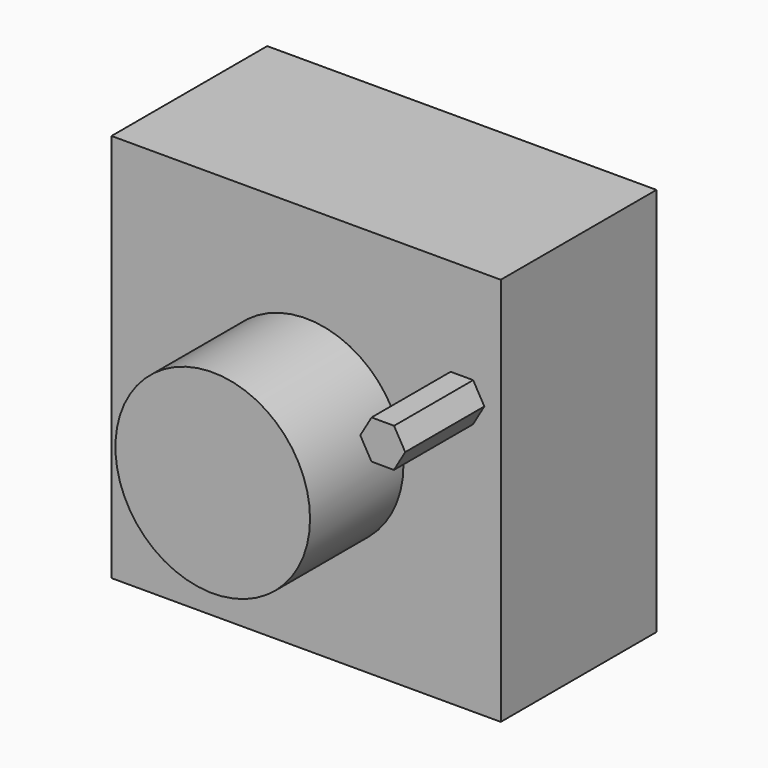
from build123d import *

# Parameters (mm, degrees)
F0_W     = 100
F0_H     = 100
F1_DEPTH = 50
F2_R     = 25
F3_DEPTH = 30
F5_DEPTH = 25.4


with BuildPart() as f1:
    # F0 (on Front) → F1 (new body)
    with BuildSketch(Plane.XZ):
        Rectangle(F0_W, F0_H)
    extrude(amount=F1_DEPTH)

    # F2 (on face) → F3 (join)
    with BuildSketch(Plane.XZ.offset(50)):
        Circle(F2_R)
    extrude(amount=F3_DEPTH)

    # F4 (on face) → F5 (join)
    with BuildSketch(Plane.XZ.offset(50)):
        Polygon((45.773503, 19.977803), (42.905975, 24.988901), (37.132472, 25.011099), (34.226497, 20.022197), (37.094025, 15.011099), (42.867528, 14.988901), align=None)
    extrude(amount=F5_DEPTH)


solid = f1.part
